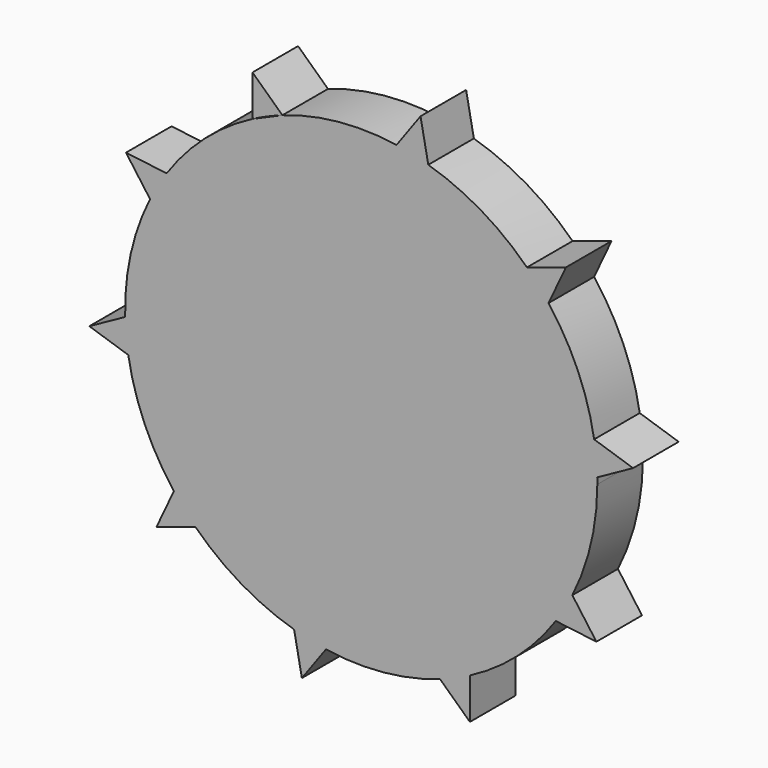
from build123d import *

# Parameters (mm, degrees)
F1_DEPTH = 0.5334


with BuildPart() as f1:
    # F0 (on Front) → F1 (new body)
    with BuildSketch(Plane.XZ):
        with BuildLine():
            ThreePointArc((1.976106, -0.989051), (2.150583, -0.508143), (2.2098, 0))
            ThreePointArc((2.2098, 0), (2.209612, 0.028848), (2.209047, 0.057692))
            ThreePointArc((2.209047, 0.057692), (2.199796, 0.21003), (2.180053, 0.361366))
            ThreePointArc((2.180053, 0.361366), (2.027228, 0.879525), (1.753246, 1.345119))
            ThreePointArc((1.753246, 1.345119), (1.65622, 1.462926), (1.551294, 1.573754))
            ThreePointArc((1.551294, 1.573754), (1.12309, 1.903125), (0.627765, 2.118756))
            ThreePointArc((0.627765, 2.118756), (0.480024, 2.157033), (0.329994, 2.185022))
            ThreePointArc((0.329994, 2.185022), (-0.21003, 2.199796), (-0.737501, 2.083101))
            Line((-0.737501, 2.083101), (-1.017353, 1.961685))
            ThreePointArc((-1.017353, 1.961685), (-1.462926, 1.65622), (-1.821067, 1.251771))
            ThreePointArc((-1.821067, 1.251771), (-1.903125, 1.12309), (-1.976106, 0.989051))
            ThreePointArc((-1.976106, 0.989051), (-2.157033, 0.480024), (-2.209047, -0.057692))
            ThreePointArc((-2.209047, -0.057692), (-2.199796, -0.21003), (-2.180053, -0.361366))
            ThreePointArc((-2.180053, -0.361366), (-2.027228, -0.879525), (-1.753246, -1.345119))
            ThreePointArc((-1.753246, -1.345119), (-1.65622, -1.462926), (-1.551294, -1.573754))
            ThreePointArc((-1.551294, -1.573754), (-1.12309, -1.903125), (-0.627765, -2.118756))
            ThreePointArc((-0.627765, -2.118756), (-0.480024, -2.157033), (-0.329994, -2.185022))
            ThreePointArc((-0.329994, -2.185022), (0.21003, -2.199796), (0.737501, -2.083101))
            ThreePointArc((0.737501, -2.083101), (0.879525, -2.027228), (1.017353, -1.961685))
            ThreePointArc((1.017353, -1.961685), (1.462926, -1.65622), (1.821067, -1.251771))
            ThreePointArc((1.821067, -1.251771), (1.903125, -1.12309), (1.976106, -0.989051))
        make_face()
        with BuildLine():
            ThreePointArc((0.329994, 2.185022), (0.480024, 2.157033), (0.627765, 2.118756))
            Line((0.627765, 2.118756), (0.555247, 2.495057))
            Line((0.555247, 2.495057), (0.329994, 2.185022))
        make_face()
        with BuildLine():
            ThreePointArc((1.551294, 1.573754), (1.65622, 1.462926), (1.753246, 1.345119))
            Line((1.753246, 1.345119), (1.915762, 1.692177))
            Line((1.915762, 1.692177), (1.551294, 1.573754))
        make_face()
        with BuildLine():
            ThreePointArc((2.180053, 0.361366), (2.199796, 0.21003), (2.209047, 0.057692))
            Line((2.209047, 0.057692), (2.544521, 0.242943))
            Line((2.544521, 0.242943), (2.180053, 0.361366))
        make_face()
        with BuildLine():
            Line((2.201359, -1.299087), (1.976106, -0.989051))
            ThreePointArc((1.976106, -0.989051), (1.903125, -1.12309), (1.821067, -1.251771))
            Line((1.821067, -1.251771), (2.201359, -1.299087))
        make_face()
        with BuildLine():
            Line((1.017353, -2.34491), (1.017353, -1.961685))
            ThreePointArc((1.017353, -1.961685), (0.879525, -2.027228), (0.737501, -2.083101))
            Line((0.737501, -2.083101), (1.017353, -2.34491))
        make_face()
        with BuildLine():
            Line((-0.555247, -2.495057), (-0.329994, -2.185022))
            ThreePointArc((-0.329994, -2.185022), (-0.480024, -2.157033), (-0.627765, -2.118756))
            Line((-0.627765, -2.118756), (-0.555247, -2.495057))
        make_face()
        with BuildLine():
            Line((-1.915762, -1.692177), (-1.551294, -1.573754))
            ThreePointArc((-1.551294, -1.573754), (-1.65622, -1.462926), (-1.753246, -1.345119))
            Line((-1.753246, -1.345119), (-1.915762, -1.692177))
        make_face()
        with BuildLine():
            Line((-2.544521, -0.242943), (-2.180053, -0.361366))
            ThreePointArc((-2.180053, -0.361366), (-2.199796, -0.21003), (-2.209047, -0.057692))
            Line((-2.209047, -0.057692), (-2.544521, -0.242943))
        make_face()
        with BuildLine():
            ThreePointArc((-1.976106, 0.989051), (-1.903125, 1.12309), (-1.821067, 1.251771))
            Line((-1.821067, 1.251771), (-2.201359, 1.299087))
            Line((-2.201359, 1.299087), (-1.976106, 0.989051))
        make_face()
        with BuildLine():
            ThreePointArc((-1.017353, 1.961685), (-0.879525, 2.027228), (-0.737501, 2.083101))
            Line((-0.737501, 2.083101), (-1.017353, 2.34491))
            Line((-1.017353, 2.34491), (-1.017353, 1.961685))
        make_face()
    extrude(amount=-F1_DEPTH)


solid = f1.part
